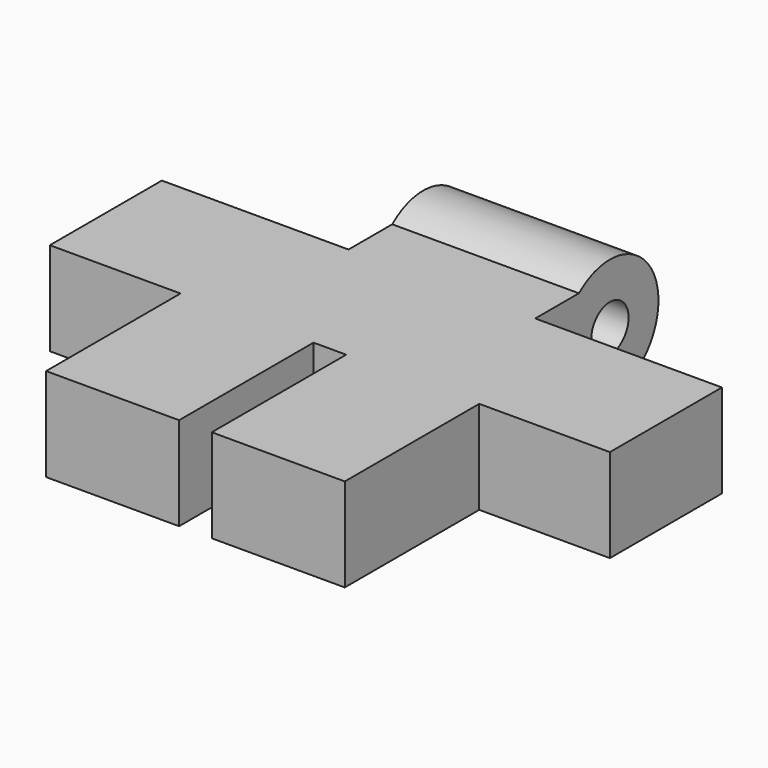
from build123d import *

# Parameters (mm, degrees)
F1_DEPTH = 10
F2_R     = 6.5
F2_R_2   = 2.5
F3_DEPTH = 10
F4_DEPTH = 12.5


with BuildPart() as f1:
    # F0 (on Top) → F1 (new body)
    with BuildSketch(Plane.XY):
        Polygon((-30, 15), (-30, 0), (-16, 0), (-16, -18), (-1.75, -18), (-1.75, 0), (0, 0), (1.75, 0), (1.75, -18), (16, -18), (16, 0), (30, 0), (30, 15), (10, 15), (10, 25), (0, 25), (-10, 25), (-10, 15), align=None)
    extrude(amount=F1_DEPTH)

    # F2 (on Right) → F3 (join, symmetric)
    with BuildSketch(Plane.YZ):
        with Locations((24.9999996855, 4.9974920324)):
            Circle(F2_R)
        with Locations((24.9999996855, 4.9974920324)):
            Circle(F2_R_2, mode=Mode.SUBTRACT)
    extrude(amount=F3_DEPTH, both=True)

    # F2 (on Right) → F4 (cut, symmetric)
    with BuildSketch(Plane.YZ):
        with Locations((24.9999996855, 4.9974920324)):
            Circle(F2_R_2)
    extrude(amount=F4_DEPTH, both=True, mode=Mode.SUBTRACT)


solid = f1.part
